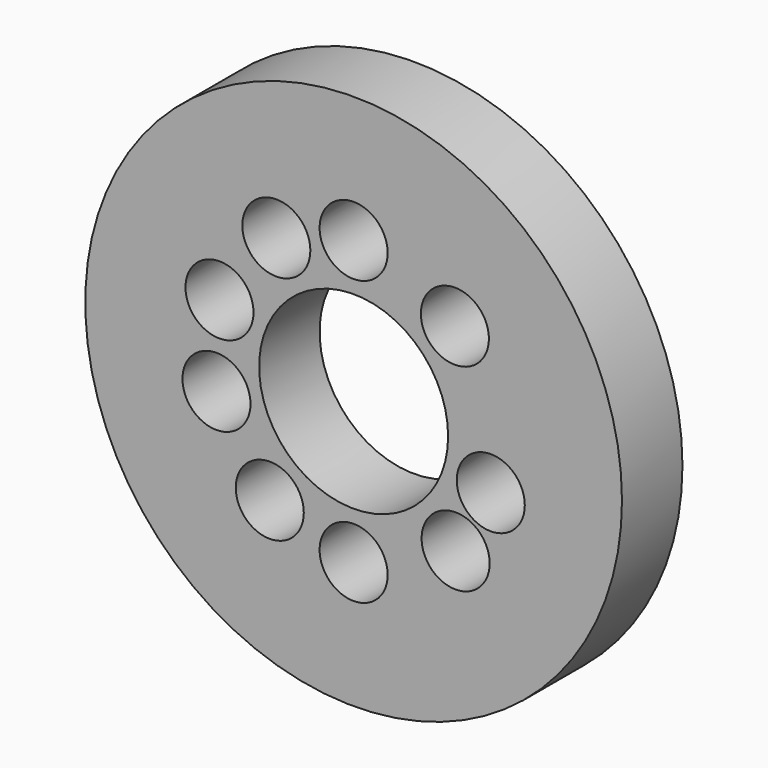
from build123d import *

# Parameters (mm, degrees)
F0_R     = 106.5
F0_R_2   = 75
F0_R_3   = 13.5
F0_R_4   = 37.5
F1_DEPTH = 30


with BuildPart() as f1:
    # F0 (on Front) → F1 (new body)
    with BuildSketch(Plane.XZ):
        with Locations((-61.070058, 14.18888)):
            Circle(F0_R)
        with Locations((-61.070058, 14.18888)):
            Circle(F0_R_2, mode=Mode.SUBTRACT)
        with Locations((-61.070058, 14.18888)):
            Circle(F0_R_2)
        with Locations((-115.501099, 0)):
            Circle(F0_R_3, mode=Mode.SUBTRACT)
        with Locations((-94.352807, -31.157798)):
            Circle(F0_R_3, mode=Mode.SUBTRACT)
        with Locations((-61.070058, -42.06112)):
            Circle(F0_R_3, mode=Mode.SUBTRACT)
        with Locations((-20.591359, -24.869249)):
            Circle(F0_R_3, mode=Mode.SUBTRACT)
        with Locations((-6.639018, 0)):
            Circle(F0_R_3, mode=Mode.SUBTRACT)
        with Locations((-114.308244, 32.348122)):
            Circle(F0_R_3, mode=Mode.SUBTRACT)
        with Locations((-91.748219, 61.336658)):
            Circle(F0_R_3, mode=Mode.SUBTRACT)
        with Locations((-61.070058, 14.18888)):
            Circle(F0_R_4, mode=Mode.SUBTRACT)
        with Locations((-20.883485, 53.547511)):
            Circle(F0_R_3, mode=Mode.SUBTRACT)
        with Locations((-61.070058, 70.43888)):
            Circle(F0_R_3, mode=Mode.SUBTRACT)
    extrude(amount=F1_DEPTH)


solid = f1.part
